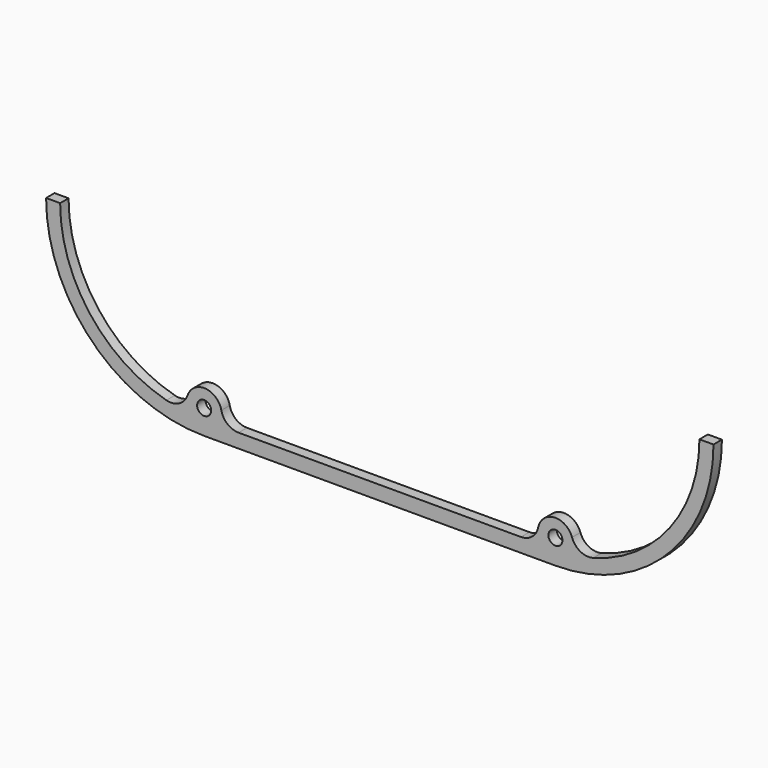
from build123d import *

# Parameters (mm, degrees)
F0_R     = 2
F1_DEPTH = 3


with BuildPart() as f1:
    # F0 (on Front) → F1 (new body)
    with BuildSketch(Plane.XZ):
        with BuildLine():
            Line((-154.777424, 73.567189), (-158.777424, 73.567189))
            ThreePointArc((-158.777424, 73.567189), (-145.59723, 41.747384), (-113.777424, 28.567189))
            Line((-113.777424, 28.567189), (-13.777424, 28.567189))
            ThreePointArc((-13.777424, 28.567189), (18.042381, 41.747384), (31.222576, 73.567189))
            Line((31.222576, 73.567189), (27.222576, 73.567189))
            ThreePointArc((27.222576, 73.567189), (18.79852, 48.671249), (-3.011954, 34.005786))
            ThreePointArc((-3.011954, 34.005786), (-6.66184, 34.41013), (-9.05112, 37.198768))
            ThreePointArc((-9.05112, 37.198768), (-14.104804, 40.55646), (-18.676404, 36.567189))
            ThreePointArc((-18.676404, 36.567189), (-20.413106, 33.694206), (-23.575383, 32.567189))
            Line((-23.575383, 32.567189), (-103.979465, 32.567189))
            ThreePointArc((-103.979465, 32.567189), (-107.141743, 33.694206), (-108.878445, 36.567189))
            ThreePointArc((-108.878445, 36.567189), (-113.450045, 40.55646), (-118.503728, 37.198768))
            ThreePointArc((-118.503728, 37.198768), (-120.893009, 34.41013), (-124.542895, 34.005786))
            ThreePointArc((-124.542895, 34.005786), (-146.353369, 48.671249), (-154.777424, 73.567189))
        make_face()
        with Locations((-113.777424, 35.567189)):
            Circle(F0_R, mode=Mode.SUBTRACT)
        with Locations((-13.777424, 35.567189)):
            Circle(F0_R, mode=Mode.SUBTRACT)
    extrude(amount=F1_DEPTH)


solid = f1.part
